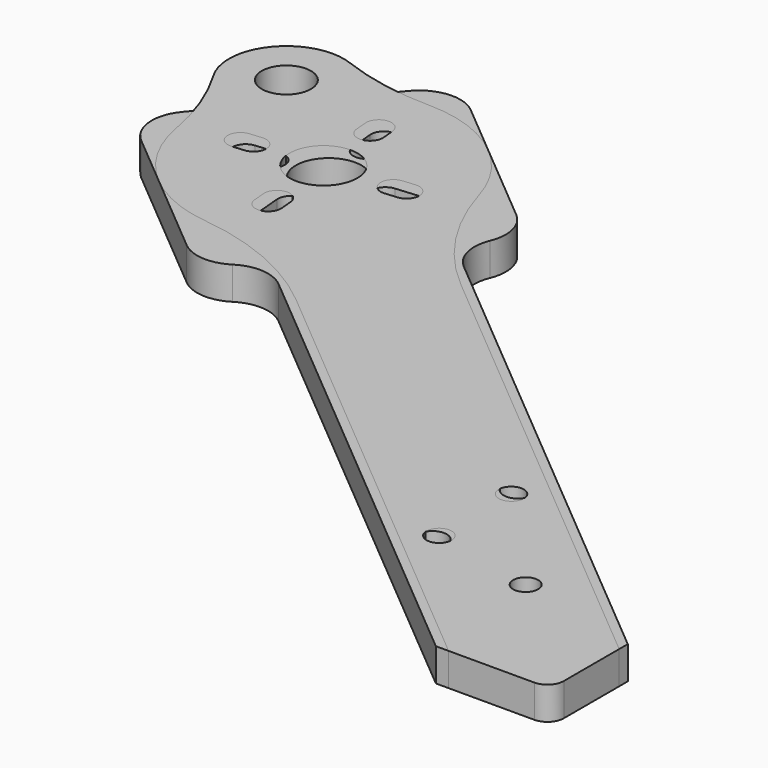
from build123d import *

# Parameters (mm, degrees)
F0_R     = 1.75
F0_R_2   = 4
F1_DEPTH = 4
F2_R     = 5
F3_R     = 1.525
F3_R_2   = 4.125
F3_R_3   = 3
F4_DEPTH = 4


with BuildPart() as f1:
    # F0 (on Top) → F1 (new body)
    with BuildSketch(Plane.XY):
        with BuildLine():
            Line((0, 11.748666), (-60.797521, 62.763843))
            ThreePointArc((-60.797521, 62.763843), (-62.440733, 65.407433), (-62.201564, 68.5109))
            ThreePointArc((-62.201564, 68.5109), (-61.962395, 71.614368), (-63.605606, 74.257957))
            Line((-63.605606, 74.257957), (-80.491665, 88.427043))
            ThreePointArc((-80.491665, 88.427043), (-84.141382, 89.577794), (-87.535825, 87.810759))
            Line((-87.535825, 87.810759), (-101.677152, 70.957781))
            ThreePointArc((-101.677152, 70.957781), (-102.827904, 67.308064), (-101.060868, 63.913621))
            Line((-101.060868, 63.913621), (-84.17481, 49.744535))
            ThreePointArc((-84.17481, 49.744535), (-81.286042, 48.585342), (-78.271254, 49.359789))
            ThreePointArc((-78.271254, 49.359789), (-75.256467, 50.134236), (-72.367698, 48.975043))
            Line((-72.367698, 48.975043), (-14.001514, 0))
            Line((-14.001514, 0), (0, 0))
            Line((0, 0), (0, 11.748666))
        make_face()
        with Locations((-28, 16.967753)):
            Circle(F0_R, mode=Mode.SUBTRACT)
        with Locations((-15.25, 15.25)):
            Circle(F0_R, mode=Mode.SUBTRACT)
        with Locations((-28, 30.021826)):
            Circle(F0_R, mode=Mode.SUBTRACT)
        with BuildLine():
            ThreePointArc((-79.927887, 59.775268), (-81.382349, 58.041907), (-83.11571, 59.496369))
            Line((-83.11571, 59.496369), (-83.377177, 62.484953))
            ThreePointArc((-83.377177, 62.484953), (-81.922714, 64.218314), (-80.189354, 62.763852))
            Line((-80.189354, 62.763852), (-79.927887, 59.775268))
        make_face(mode=Mode.SUBTRACT)
        with BuildLine():
            ThreePointArc((-91.674178, 66.677777), (-93.407539, 68.132239), (-91.953076, 69.8656))
            Line((-91.953076, 69.8656), (-88.964492, 70.127067))
            ThreePointArc((-88.964492, 70.127067), (-87.231132, 68.672605), (-88.685594, 66.939244))
            Line((-88.685594, 66.939244), (-91.674178, 66.677777))
        make_face(mode=Mode.SUBTRACT)
        with Locations((-82.349778, 69.099668)):
            Circle(F0_R_2, mode=Mode.SUBTRACT)
        with BuildLine():
            Line((-84.510201, 75.435484), (-84.771669, 78.424068))
            ThreePointArc((-84.771669, 78.424068), (-83.317206, 80.157429), (-81.583846, 78.702967))
            Line((-81.583846, 78.702967), (-81.322378, 75.714383))
            ThreePointArc((-81.322378, 75.714383), (-82.776841, 73.981022), (-84.510201, 75.435484))
        make_face(mode=Mode.SUBTRACT)
        with BuildLine():
            ThreePointArc((-73.025377, 71.521559), (-71.292016, 70.067097), (-72.746479, 68.333736))
            Line((-72.746479, 68.333736), (-75.735063, 68.072269))
            ThreePointArc((-75.735063, 68.072269), (-77.468424, 69.526731), (-76.013961, 71.260092))
            Line((-76.013961, 71.260092), (-73.025377, 71.521559))
        make_face(mode=Mode.SUBTRACT)
    extrude(amount=F1_DEPTH)

    # F2
    f2_edges = [f1.edges().sort_by_distance(p)[0] for p in [
        (0, 0, 2),
    ]]
    fillet(f2_edges, radius=F2_R)


with BuildPart() as f4:
    # F3 (on Top) → F4 (new body)
    with BuildSketch(Plane.XY):
        with BuildLine():
            ThreePointArc((-58.797132, 59.77991), (-64.997857, 66.761335), (-68.919235, 75.235535))
            ThreePointArc((-68.919235, 75.235535), (-74.667226, 83.50839), (-84.219773, 86.706573))
            ThreePointArc((-84.219773, 86.706573), (-89.982887, 87.246339), (-95.554483, 88.815466))
            ThreePointArc((-95.554483, 88.815466), (-103.416, 86.776327), (-104.059021, 78.680152))
            ThreePointArc((-104.059021, 78.680152), (-101.546236, 73.465677), (-100.013916, 67.883847))
            ThreePointArc((-100.013916, 67.883847), (-95.205538, 59.031784), (-86.060238, 54.807684))
            ThreePointArc((-86.060238, 54.807684), (-77.03384, 52.417409), (-69.081734, 47.523199))
            Line((-69.081734, 47.523199), (-12.445791, 0))
            Line((-12.445791, 0), (-2, 0))
            ThreePointArc((-2, 0), (-0.585786, 0.585786), (0, 2))
            Line((0, 2), (0, 10.443258))
            Line((0, 10.443258), (-58.797132, 59.77991))
        make_face()
        with Locations((-28, 18)):
            Circle(F3_R, mode=Mode.SUBTRACT)
        with Locations((-15.25, 15.25)):
            Circle(F3_R, mode=Mode.SUBTRACT)
        with Locations((-28, 29)):
            Circle(F3_R, mode=Mode.SUBTRACT)
        with BuildLine():
            ThreePointArc((-85.111745, 62.601988), (-83.702734, 64.281181), (-82.023541, 62.872171))
            Line((-82.023541, 62.872171), (-81.892807, 61.377879))
            ThreePointArc((-81.892807, 61.377879), (-83.301818, 59.698686), (-84.981011, 61.107696))
            Line((-84.981011, 61.107696), (-85.111745, 62.601988))
        make_face(mode=Mode.SUBTRACT)
        with BuildLine():
            ThreePointArc((-92.369538, 71.553493), (-90.690345, 70.144483), (-92.099355, 68.465289))
            Line((-92.099355, 68.465289), (-93.593647, 68.334556))
            ThreePointArc((-93.593647, 68.334556), (-95.27284, 69.743566), (-93.86383, 71.422759))
            Line((-93.86383, 71.422759), (-92.369538, 71.553493))
        make_face(mode=Mode.SUBTRACT)
        with Locations((-84.264889, 70.706637)):
            Circle(F3_R_2, mode=Mode.SUBTRACT)
        with Locations((-98.053689, 82.276814)):
            Circle(F3_R_3, mode=Mode.SUBTRACT)
        with BuildLine():
            ThreePointArc((-83.418033, 78.811286), (-84.827043, 77.132093), (-86.506236, 78.541103))
            Line((-86.506236, 78.541103), (-86.63697, 80.035395))
            ThreePointArc((-86.63697, 80.035395), (-85.22796, 81.714588), (-83.548767, 80.305578))
            Line((-83.548767, 80.305578), (-83.418033, 78.811286))
        make_face(mode=Mode.SUBTRACT)
        with BuildLine():
            Line((-74.665948, 69.990515), (-76.16024, 69.859781))
            ThreePointArc((-76.16024, 69.859781), (-77.839433, 71.268792), (-76.430423, 72.947985))
            Line((-76.430423, 72.947985), (-74.936131, 73.078718))
            ThreePointArc((-74.936131, 73.078718), (-73.256937, 71.669708), (-74.665948, 69.990515))
        make_face(mode=Mode.SUBTRACT)
    extrude(amount=F4_DEPTH)


solid = Compound([f1.part, f4.part])
